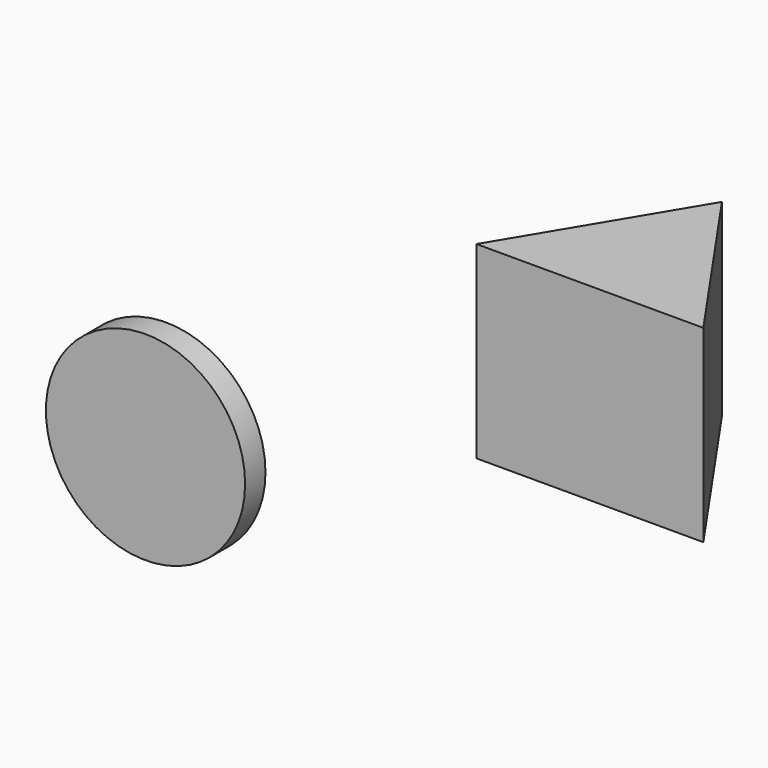
from build123d import *

# Parameters (mm, degrees)
F1_DEPTH = 50.8


with BuildPart() as f1:
    # F0 (on Top) → F1 (new body)
    with BuildSketch(Plane.XY):
        Polygon((28.308937, 47.231231), (0, 0), (61.087713, 0), align=None)
    extrude(amount=F1_DEPTH)


with BuildPart() as f3:
    # F2 (on Top) → F3 (revolve)
    with BuildSketch(Plane.XY):
        Polygon((-50.360113, -29.947877), (-57.511844, -15.346425), (-57.511844, -39.483521), (-30.692847, -39.483521), (-30.692847, -32.629777), align=None)
    revolve(axis=Axis((-57.511844, -27.414973, 0), (0, -1, 0)))


solid = Compound([f1.part, f3.part])
